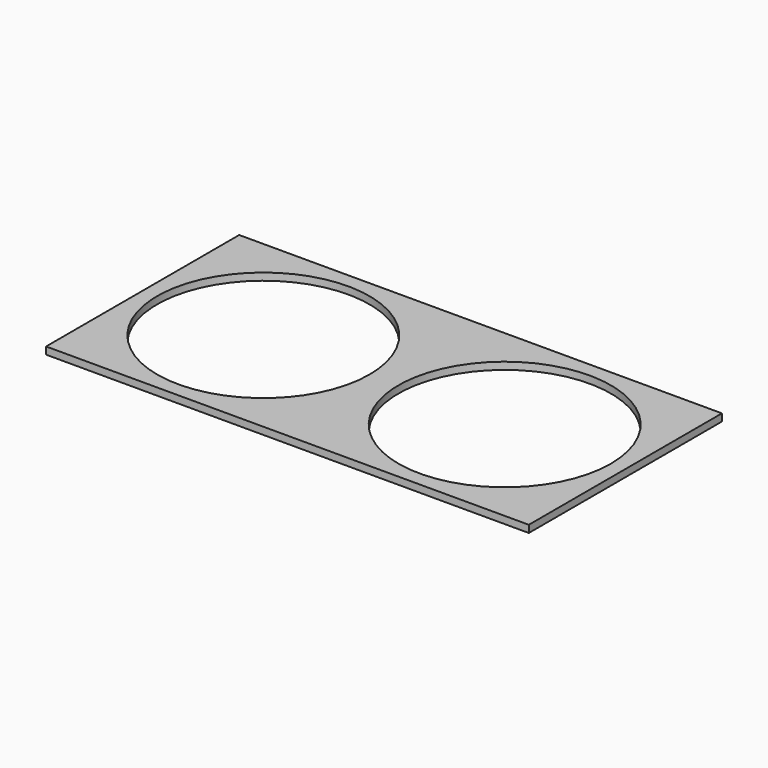
from build123d import *

# Parameters (mm, degrees)
SKETCH001_W = 100
SKETCH001_H = 50
SKETCH001_R = 22
PAD_DEPTH   = 1.5


with BuildPart() as part:
    # Sketch001 → Pad (new body)
    with BuildSketch(Plane(origin=(0, 0, 0), x_dir=(1, 0, 0), z_dir=(0, 0, -1))):
        with Locations((25, 0)):
            Rectangle(SKETCH001_W, SKETCH001_H)
        Circle(SKETCH001_R, mode=Mode.SUBTRACT)
        with Locations((50, 0)):
            Circle(SKETCH001_R, mode=Mode.SUBTRACT)
    extrude(amount=PAD_DEPTH)


solid = part.part
